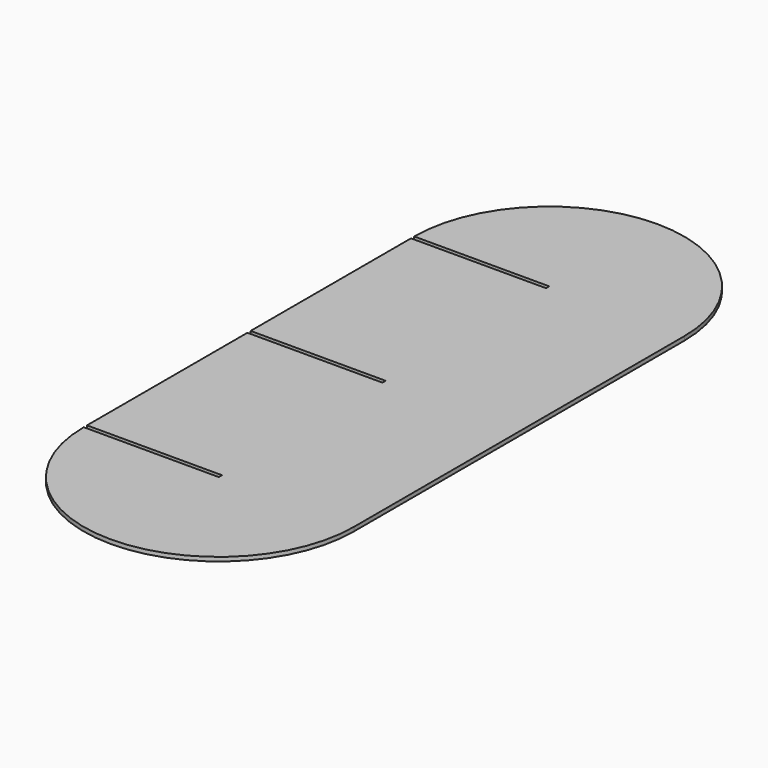
from build123d import *

# Parameters (mm, degrees)
F1_DEPTH = 6


with BuildPart() as f1:
    # F0 (on Top) → F1 (new body)
    with BuildSketch(Plane.XY):
        with BuildLine():
            ThreePointArc((359.906451, 606), (159.906451, 806), (-40.093549, 606))
            Line((-40.093549, 606), (159.906451, 606))
            Line((159.906451, 606), (159.906451, 600))
            Line((159.906451, 600), (-40.093549, 600))
            Line((-40.093549, 600), (-40.093549, 303))
            Line((-40.093549, 303), (159.906451, 303))
            Line((159.906451, 303), (159.906451, 297))
            Line((159.906451, 297), (-40.093549, 297))
            Line((-40.093549, 297), (-40.093549, 0))
            Line((-40.093549, 0), (159.906451, 0))
            Line((159.906451, 0), (159.906451, -6))
            Line((159.906451, -6), (-40.093549, -6))
            ThreePointArc((-40.093549, -6), (159.906451, -206), (359.906451, -6))
            Line((359.906451, -6), (359.906451, 606))
        make_face()
    extrude(amount=F1_DEPTH)


solid = f1.part
